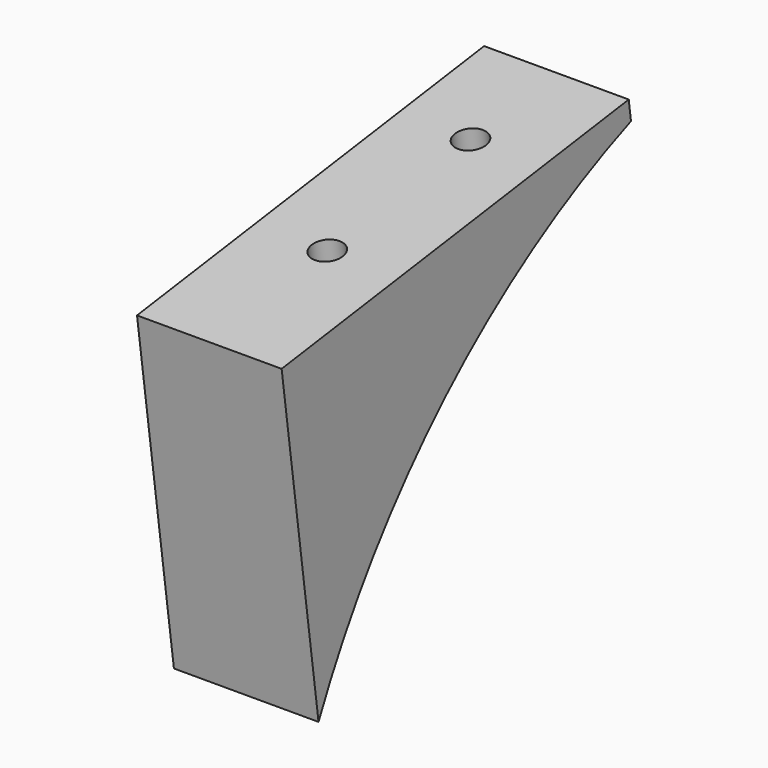
from build123d import *

# Parameters (mm, degrees)
F2_DEPTH = 20
F3_R     = 2.15
F4_DEPTH = 53.5106741103


with BuildPart() as f2:
    # F1 (on Right) → F2 (new body)
    with BuildSketch(Plane.YZ):
        with BuildLine():
            Line((-37.2282885411, 95.76478214), (-97.2282885411, 87.3686287681))
            Line((-97.2282885411, 87.3686287681), (-90.8499928032, 41.7885009023))
            ThreePointArc((-90.8499928032, 41.7885009023), (-68.7809622542, 72.5891123475), (-36.8369129415, 92.9679613896))
            Line((-36.8369129415, 92.9679613896), (-37.2282885411, 95.76478214))
        make_face()
    extrude(amount=F2_DEPTH)

    # F3 (on face) → F4 (cut, through all)
    with BuildSketch(Plane(origin=(0, -13.8585572946, 99.0350462701), x_dir=(1, 0, 0), z_dir=(0, -0.1385855729, 0.9903504627))):
        with Locations((10, -38.5974355813)):
            Circle(F3_R)
        with Locations((10, -63.5974355813)):
            Circle(F3_R)
    extrude(amount=-F4_DEPTH, mode=Mode.SUBTRACT)


solid = f2.part
